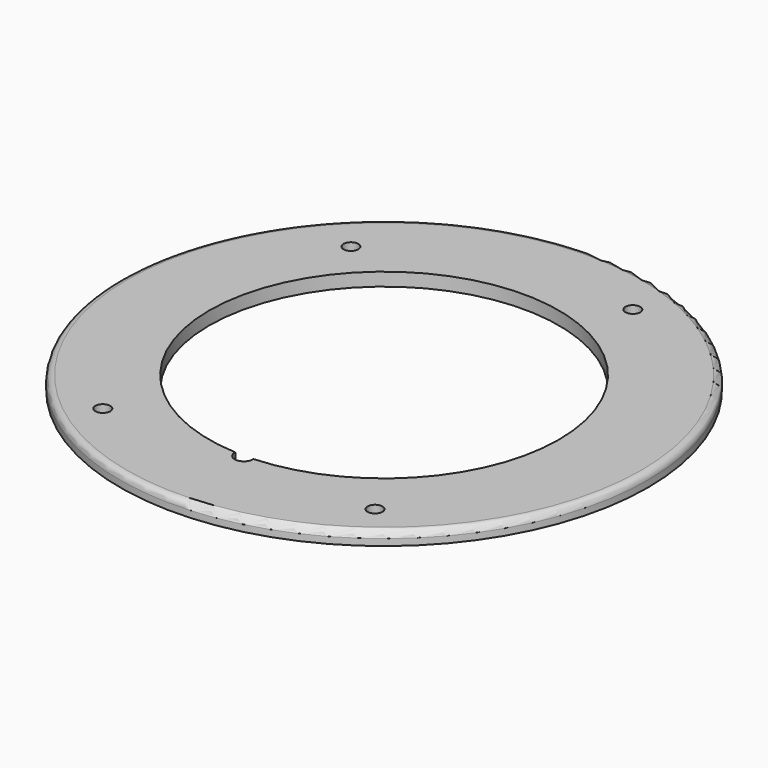
from build123d import *

# Parameters (mm, degrees)
SKETCH_R     = 80
SKETCH_R_2   = 53
SKETCH_R_3   = 2.25
PAD_DEPTH    = 4
SKETCH001_R  = 2.762237
POCKET_DEPTH = 4.001
FILLET_R     = 2


with BuildPart() as part:
    # Sketch → Pad (new body)
    with BuildSketch(Plane.XY):
        Circle(SKETCH_R)
        Circle(SKETCH_R_2, mode=Mode.SUBTRACT)
        with Locations((25, 63)):
            Circle(SKETCH_R_3, mode=Mode.SUBTRACT)
        with Locations((-47.25, 46.5)):
            Circle(SKETCH_R_3, mode=Mode.SUBTRACT)
        with Locations((-41.25, -55)):
            Circle(SKETCH_R_3, mode=Mode.SUBTRACT)
        with Locations((41.25, -55)):
            Circle(SKETCH_R_3, mode=Mode.SUBTRACT)
    extrude(amount=PAD_DEPTH)

    # Sketch001 (on Face8 of Pad) → Pocket (cut, through all)
    with BuildSketch(Plane.XY.offset(4)):
        with Locations((0, -53.138237)):
            Circle(SKETCH001_R)
    extrude(amount=-POCKET_DEPTH, mode=Mode.SUBTRACT)

    # Fillet
    fillet_edges = [part.edges().sort_by_distance(p)[0] for p in [
        (-80, 0, 4),
    ]]
    fillet(fillet_edges, radius=FILLET_R)


solid = part.part
